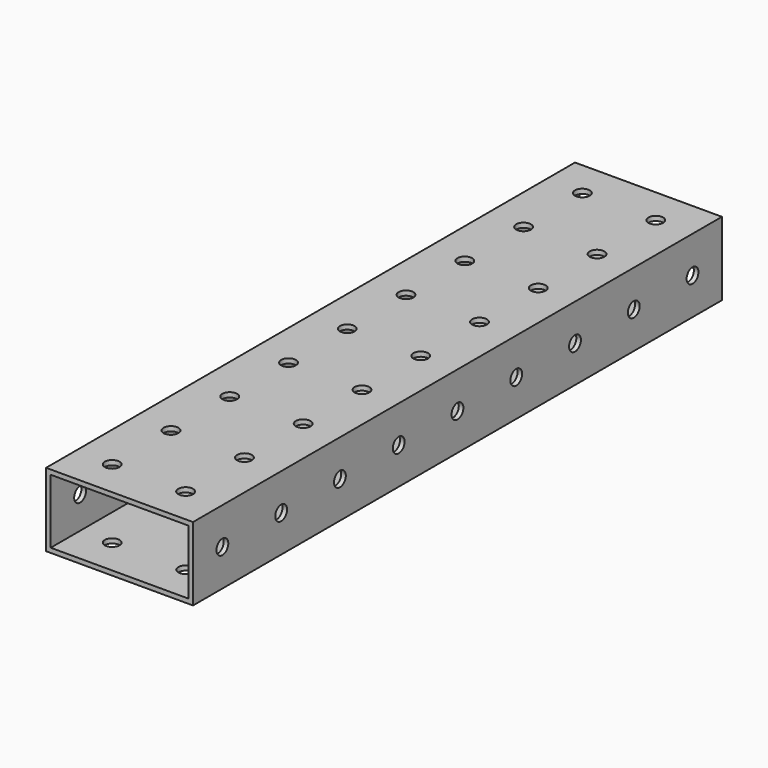
from build123d import *

# Parameters (mm, degrees)
F0_W     = 50.8
F0_H     = 25.4
F1_DEPTH = 228.6
F2_R     = 2.5527
F3_DEPTH = 76.2
F4_W     = 47.6123
F4_H     = 22.2123
F5_DEPTH = 508
F6_R     = 2.5527
F7_DEPTH = 508


with BuildPart() as f1:
    # F0 (on Front) → F1 (new body)
    with BuildSketch(Plane.XZ):
        with Locations((2e-06, -54.285569)):
            Rectangle(F0_W, F0_H)
    extrude(amount=F1_DEPTH)

    # F2 (on face) → F3 (cut)
    with BuildSketch(Plane(origin=(0, 0, -66.985569), x_dir=(1, 0, 0), z_dir=(0, 0, -1))):
        with Locations((-12.699998, 215.9)):
            Circle(F2_R)
        with Locations((-12.699998, 190.5)):
            Circle(F2_R)
        with Locations((-12.699998, 165.1)):
            Circle(F2_R)
        with Locations((-12.699998, 139.7)):
            Circle(F2_R)
        with Locations((-12.699998, 114.3)):
            Circle(F2_R)
        with Locations((-12.699998, 88.9)):
            Circle(F2_R)
        with Locations((12.700002, 215.9)):
            Circle(F2_R)
        with Locations((12.700002, 190.5)):
            Circle(F2_R)
        with Locations((12.700002, 165.1)):
            Circle(F2_R)
        with Locations((12.700002, 139.7)):
            Circle(F2_R)
        with Locations((12.700002, 114.3)):
            Circle(F2_R)
        with Locations((12.700002, 88.9)):
            Circle(F2_R)
        with Locations((-12.699998, 63.5)):
            Circle(F2_R)
        with Locations((12.700002, 63.5)):
            Circle(F2_R)
        with Locations((-12.699998, 38.1)):
            Circle(F2_R)
        with Locations((12.700002, 38.1)):
            Circle(F2_R)
        with Locations((-12.699998, 12.7)):
            Circle(F2_R)
        with Locations((12.700002, 12.7)):
            Circle(F2_R)
    extrude(amount=-F3_DEPTH, mode=Mode.SUBTRACT)

    # F4 (on face) → F5 (cut)
    with BuildSketch(Plane.XZ.offset(228.6)):
        with Locations((0.006352, -54.291919)):
            Rectangle(F4_W, F4_H)
    extrude(amount=-F5_DEPTH, mode=Mode.SUBTRACT)

    # F6 (on face) → F7 (cut)
    with BuildSketch(Plane(origin=(-25.399998, 0, 0), x_dir=(0, -1, 0), z_dir=(-1, 0, 0))):
        with Locations((215.9, -54.285569)):
            Circle(F6_R)
        with Locations((190.5, -54.285569)):
            Circle(F6_R)
        with Locations((165.1, -54.285569)):
            Circle(F6_R)
        with Locations((139.7, -54.285569)):
            Circle(F6_R)
        with Locations((114.3, -54.285569)):
            Circle(F6_R)
        with Locations((88.9, -54.285569)):
            Circle(F6_R)
        with Locations((63.5, -54.285569)):
            Circle(F6_R)
        with Locations((38.1, -54.285569)):
            Circle(F6_R)
        with Locations((12.7, -54.285569)):
            Circle(F6_R)
    extrude(amount=-F7_DEPTH, mode=Mode.SUBTRACT)


solid = f1.part
